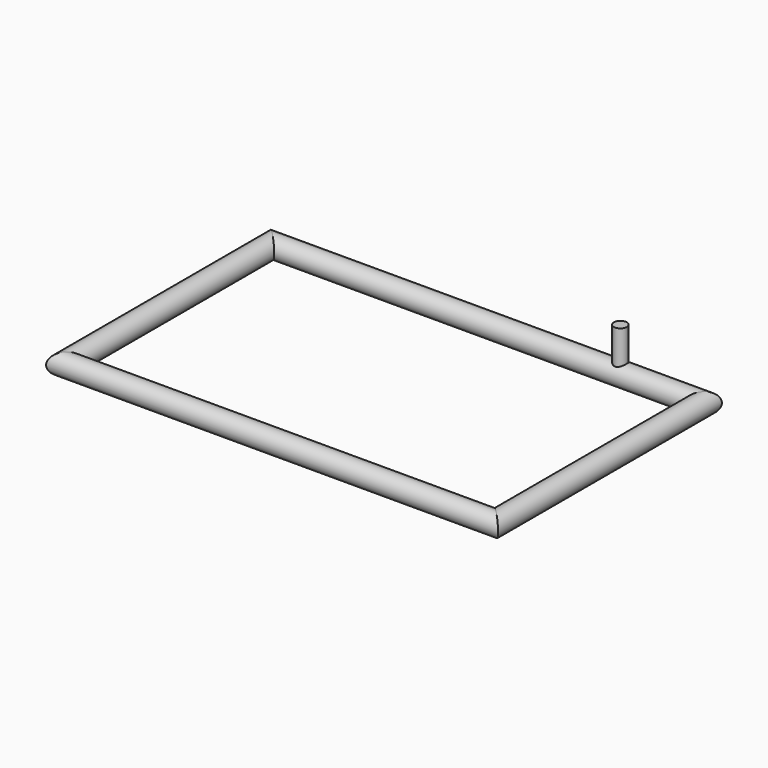
from build123d import *

# Parameters (mm, degrees)
F0_R     = 6.35
F3_R     = 3.81
F4_DEPTH = 25.4


with BuildPart() as f2:
    # F2: sweep along a path in F1
    with BuildLine(Plane.XY) as f2_path:
        Line((0, 0), (127, 0))
        Line((127, 0), (127, -152.4))
        Line((127, -152.4), (-127, -152.4))
        Line((-127, -152.4), (-127, 0))
        Line((-127, 0), (0, 0))
    # F0 (on Right) → F2 (sweep)
    with BuildSketch(Plane.YZ):
        Circle(F0_R)
    sweep(path=f2_path.line, transition=Transition.RIGHT)


with BuildPart() as f4:
    # F3 (on Top) → F4 (new body)
    with BuildSketch(Plane.XY):
        with Locations((78.5126033376, 0)):
            Circle(F3_R)
    extrude(amount=F4_DEPTH)


solid = Compound([f2.part, f4.part])
